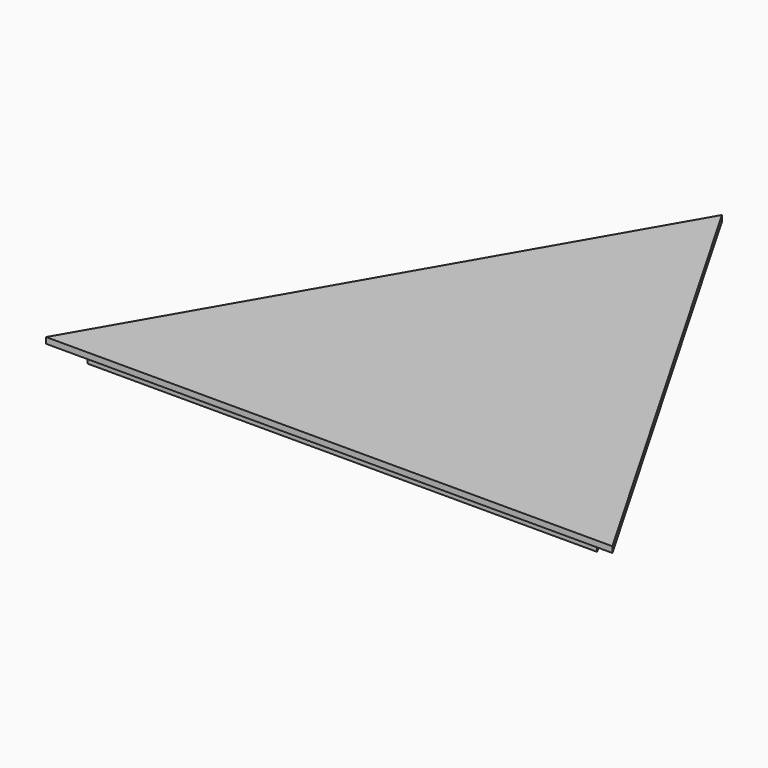
from build123d import *

# Parameters (mm, degrees)
F1_DEPTH = 2
F3_DEPTH = 5


with BuildPart() as f1:
    # F0 (on Top) → F1 (new body)
    with BuildSketch(Plane.XY):
        Polygon((0, 164.685234), (-86.34713, 15), (-69.030312, 15), (-37.203411, 70.172849), (0, 134.666033), (37.203411, 70.172849), (69.030312, 15), (86.34713, 15), align=None)
        Polygon((-89.227728, 0), (0, 0), (89.227728, 0), (86.343437, 5), (92.11571, 5), (86.34713, 15), (69.030312, 15), (0, 15), (-69.030312, 15), (-86.34713, 15), (-95, 0), align=None)
        Polygon((86.343437, 5), (89.227728, 0), (95, 0), (92.11571, 5), align=None)
        Polygon((-37.203411, 70.172849), (-69.030312, 15), (0, 15), (69.030312, 15), (37.203411, 70.172849), (0, 134.666033), align=None)
    extrude(amount=F1_DEPTH)

    # F2 (on face) → F3 (join)
    with BuildSketch(Plane(origin=(0, 0, 0), x_dir=(1, 0, 0), z_dir=(0, 0, -1))):
        Polygon((1.73242, -150.674994), (52.60681, -62.482775), (50.87439, -61.483415), (0, -149.675634), (-50.87439, -61.483415), (-82.015156, -7.5), (-83.168872, -5.5), (-85.477781, -5.5), (-1.73242, -150.674994), align=None)
        Polygon((0, -7.5), (82.015156, -7.5), (83.168872, -5.5), (-12.322525, -5.5), (-83.168872, -5.5), (-82.015156, -7.5), align=None)
        Polygon((50.87439, -61.483415), (52.60681, -62.482775), (85.477781, -5.5), (83.168872, -5.5), (82.015156, -7.5), align=None)
    extrude(amount=F3_DEPTH)


solid = f1.part
